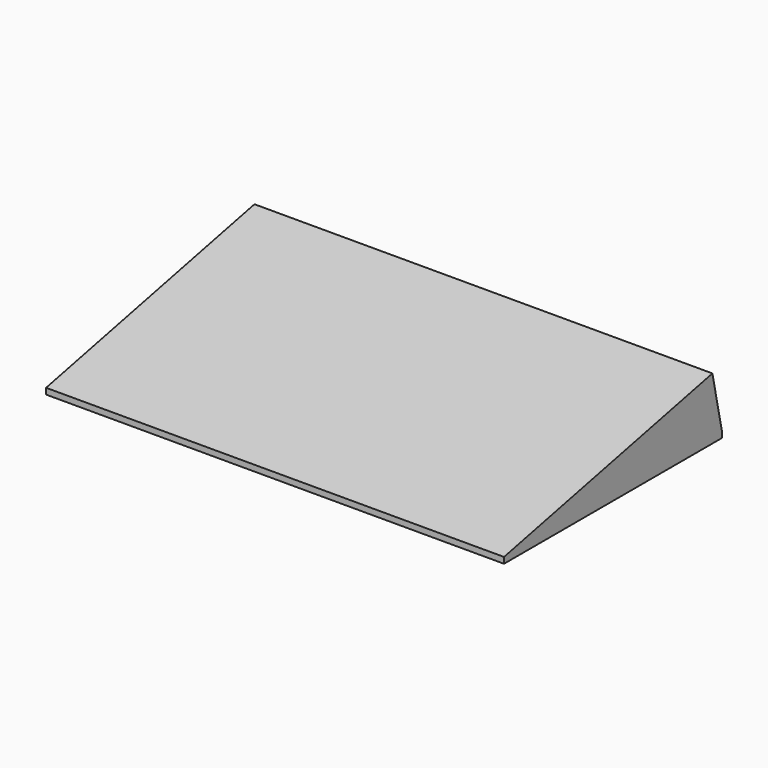
from build123d import *

# Parameters (mm, degrees)
F0_W     = 1650
F0_H     = 45
F1_DEPTH = 995
F2_W     = 2260
F2_H     = 50
F3_DEPTH = 3800
F5_DEPTH = 3800


with BuildPart() as f1:
    # F0 (on Right) → F1 (new body)
    with BuildSketch(Plane.YZ):
        with Locations((754.526432, 20.294605)):
            Rectangle(F0_W, F0_H)
    extrude(amount=F1_DEPTH)


with BuildPart() as f3:
    # F2 (on Right) → F3 (new body)
    with BuildSketch(Plane.YZ):
        with Locations((281.103551, 341.007764)):
            Rectangle(F2_W, F2_H)
    extrude(amount=F3_DEPTH)

    # F4 (on face) → F5 (join)
    with BuildSketch(Plane.YZ.offset(3800)):
        Polygon((1312.209746, 828.306386), (-848.896449, 366.007764), (1411.103551, 366.007764), align=None)
    extrude(amount=-F5_DEPTH)


solid = Compound([f1.part, f3.part])
